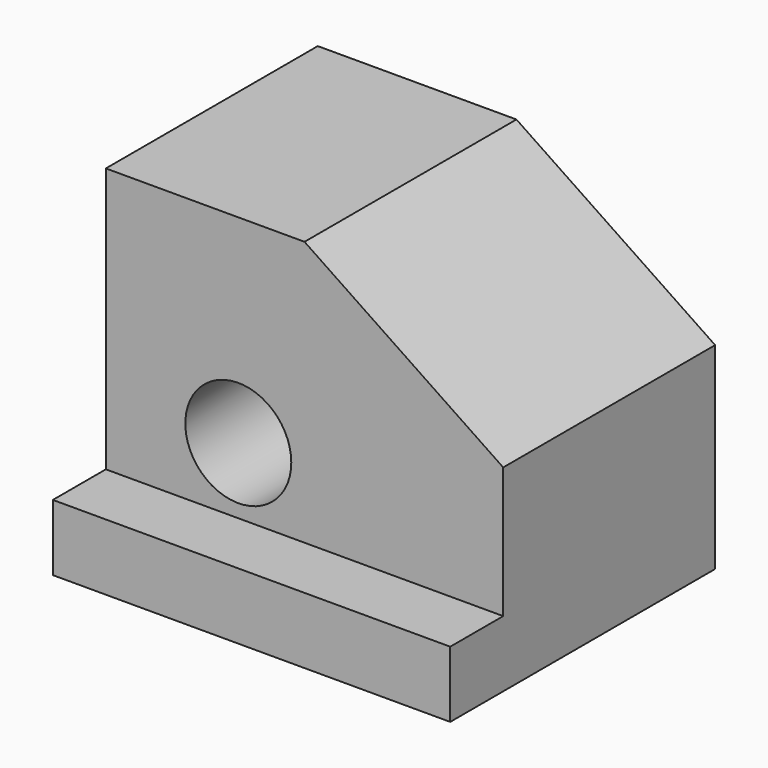
from build123d import *

# Parameters (mm, degrees)
F0_W     = 15
F0_H     = 12.5
F1_DEPTH = 12.5
F2_SIZE2 = 5.0588138763
F2_SIZE  = 7.5
F3_W     = 2.5
F3_H     = 10
F4_DEPTH = 15.001
F5_R     = 2
F6_DEPTH = 10.001


with BuildPart() as f1:
    # F0 (on Front) → F1 (new body)
    with BuildSketch(Plane.XZ):
        with Locations((-7.5, 6.25)):
            Rectangle(F0_W, F0_H)
    extrude(amount=F1_DEPTH)

    # F2
    f2_edges = [f1.edges().sort_by_distance(p)[0] for p in [
        (0, -6.25, 12.5),
    ]]
    f2_side = f1.faces().sort_by_distance((-7.5, -6.25, 12.5))[0]
    chamfer(f2_edges, length=F2_SIZE, length2=F2_SIZE2, reference=f2_side)

    # F3 (on face) → F4 (cut, through all)
    with BuildSketch(Plane.YZ):
        with Locations((-11.25, 7.5)):
            Rectangle(F3_W, F3_H)
    extrude(amount=-F4_DEPTH, mode=Mode.SUBTRACT)

    # F5 (on face) → F6 (cut, through all)
    with BuildSketch(Plane.XZ.offset(10)):
        with Locations((-10, 5)):
            Circle(F5_R)
    extrude(amount=-F6_DEPTH, mode=Mode.SUBTRACT)


solid = f1.part
